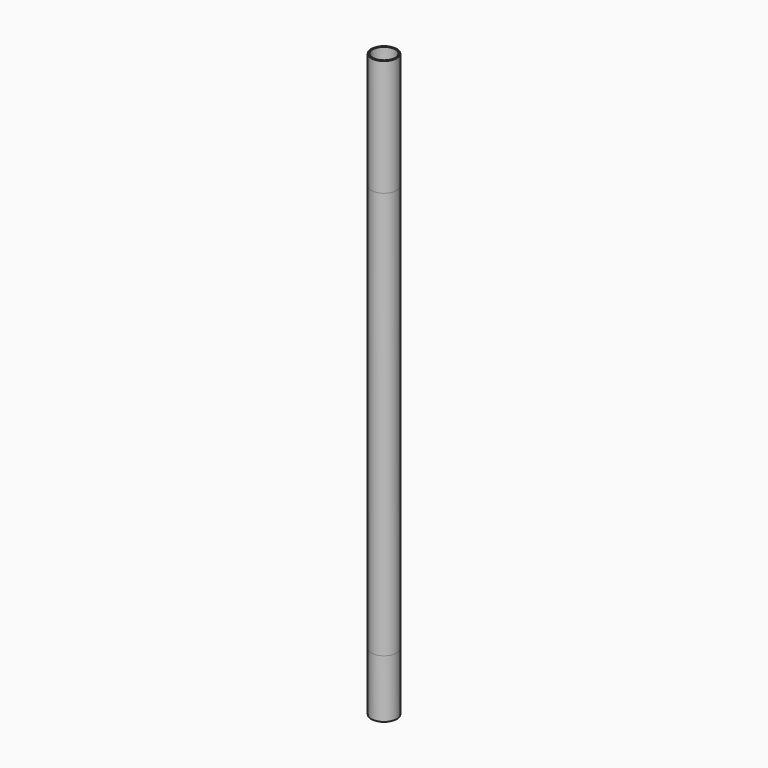
from build123d import *

# Parameters (mm, degrees)
F0_R        = 11.1125
F0_R_2      = 9.8425
F1_DEPTH    = 457.2
F1_FACE_R   = 11.1125
F1_FACE_R_2 = 9.8425
F2_DEPTH    = 50.8
F3_DEPTH    = 355.6


with BuildPart() as f1:
    # F0 (on Top) → F1 (new body)
    with BuildSketch(Plane.XY):
        Circle(F0_R)
        Circle(F0_R_2, mode=Mode.SUBTRACT)
    extrude(amount=F1_DEPTH)


with BuildPart() as f2:
    # F1_face (on face) → F2 (new body)
    with BuildSketch(Plane(origin=(0, 0, 0), x_dir=(1, 0, 0), z_dir=(0, 0, -1))):
        Circle(F1_FACE_R)
        Circle(F1_FACE_R_2, mode=Mode.SUBTRACT)
    extrude(amount=F2_DEPTH)


with BuildPart() as f3:
    # F0 (on Top) → F3 (new body)
    with BuildSketch(Plane.XY):
        Circle(F0_R)
        Circle(F0_R_2, mode=Mode.SUBTRACT)
    extrude(amount=F3_DEPTH)


solid = Compound([f1.part, f2.part, f3.part])
